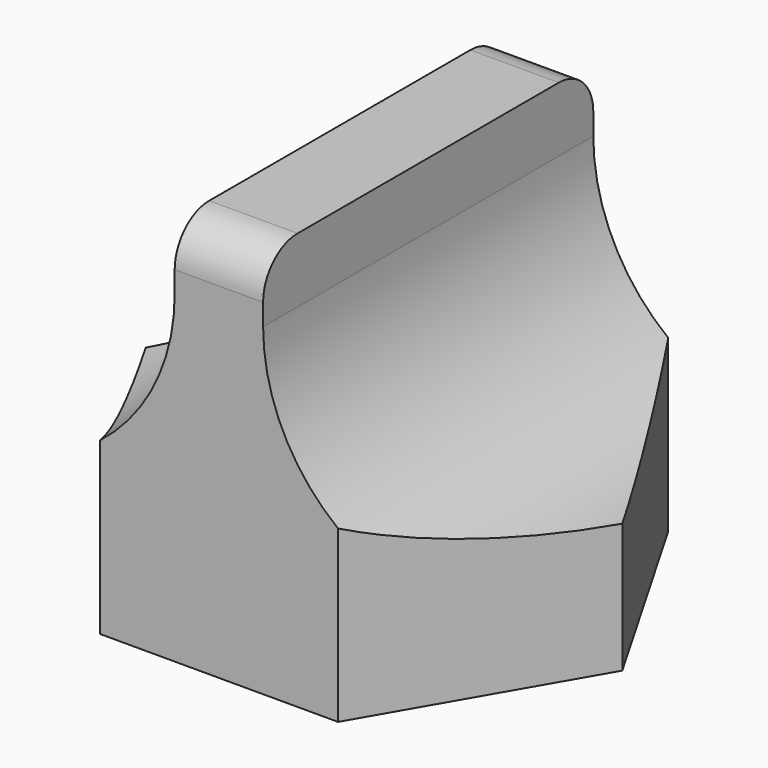
from build123d import *

# Parameters (mm, degrees)
PAD_DEPTH       = 7.5
SKETCH001_R     = 4.5
POCKET_DEPTH    = 30
SKETCH002_R     = 1.7
HOLE_DEPTH      = 5
HOLE_TIPS_R     = 1.7
POCKET001_DEPTH = 2.6
POCKET002_DEPTH = 0.3
SKETCH007_R     = 0.32
POCKET003_DEPTH = 1.5
SKETCH008_W     = 2.05
SKETCH008_H     = 9.56958
PAD003_DEPTH    = 1.5
FILLET001_R     = 1
SKETCH005_R     = 1.6
PAD001_DEPTH    = 0.3
SKETCH006_R     = 0.32
SKETCH006_R_2   = 0.319777
PAD002_DEPTH    = 1.32
FILLET_R        = 0.3


with BuildPart() as main_body:
    # Sketch → Pad (new body)
    with BuildSketch(Plane.XY):
        Polygon((5.525, 0), (2.7625, 4.78479), (-2.7625, 4.78479), (-5.525, 0), (-2.7625, -4.78479), (2.7625, -4.78479), align=None)
    extrude(amount=PAD_DEPTH)

    # Sketch001 (on Face5 of Pad) → Pocket (cut)
    with BuildSketch(Plane.XZ.offset(4.78479)):
        with Locations((-5.525, 7.5)):
            Circle(SKETCH001_R)
        with Locations((5.525, 7.5)):
            Circle(SKETCH001_R)
    extrude(amount=-POCKET_DEPTH, mode=Mode.SUBTRACT)

    # Sketch002 → Hole (cut)
    with BuildSketch(Plane(origin=(0, 0, 0), x_dir=(1, 0, 0), z_dir=(0, 0, -1))):
        Circle(SKETCH002_R)
    extrude(amount=-HOLE_DEPTH, mode=Mode.SUBTRACT)

    # Hole tips → Hole tip 1 section 0
    with BuildSketch(Plane(origin=(0, 0, 5), x_dir=(1, 0, 0), z_dir=(0, 0, -1)), mode=Mode.PRIVATE) as hole_tip_1_s0:
        Circle(HOLE_TIPS_R)
    loft([hole_tip_1_s0.sketch, Vertex(0, 0, 6.021463)], mode=Mode.SUBTRACT)

    # Sketch003 (on Face2 of Hole) → Pocket001 (cut)
    with BuildSketch(Plane(origin=(0, 0, 0), x_dir=(1, 0, 0), z_dir=(0, 0, -1))):
        Polygon((2.948341, 0), (1.498341, 2.511474), (-1.401659, 2.511474), (-2.851659, 0), (-1.401659, -2.511474), (1.498341, -2.511474), align=None)
    extrude(amount=-POCKET001_DEPTH, mode=Mode.SUBTRACT)

    # Sketch004 (on Face2 of Pocket001) → Pocket002 (cut)
    with BuildSketch(Plane(origin=(0, 0, 0), x_dir=(1, 0, 0), z_dir=(0, 0, -1))):
        Polygon((4.5, 0), (2.25, 3.897114), (-2.25, 3.897114), (-4.5, 0), (-2.25, -3.897114), (2.25, -3.897114), align=None)
    extrude(amount=-POCKET002_DEPTH, mode=Mode.SUBTRACT)

    # Sketch007 (on Face17 of Pocket002) → Pocket003 (cut)
    with BuildSketch(Plane(origin=(0, 0, 0.3), x_dir=(1, 0, 0), z_dir=(0, 0, -1))):
        with Locations((0.000817, -3.35)):
            Circle(SKETCH007_R)
        with Locations((-3.349997, -0.004097)):
            Circle(SKETCH007_R)
        with Locations((0.000817, 3.35)):
            Circle(SKETCH007_R)
        with Locations((3.349997, -0.004097)):
            Circle(SKETCH007_R)
    extrude(amount=-POCKET003_DEPTH, mode=Mode.SUBTRACT)

    # Sketch008 (on Face16 of Pocket003) → Pad003 (join)
    with BuildSketch(Plane.XY.offset(7.5)):
        Rectangle(SKETCH008_W, SKETCH008_H)
    extrude(amount=PAD003_DEPTH)

    # Fillet001
    fillet001_edges = [main_body.edges().sort_by_distance(p)[0] for p in [
        (0, -4.78479, 9),
        (0, 4.78479, 9),
    ]]
    fillet(fillet001_edges, radius=FILLET001_R)


with BuildPart() as cap_body:
    # Sketch005 → Pad001 (new body)
    with BuildSketch(Plane.XY):
        Polygon((4.5, 0), (2.25, 3.897114), (-2.25, 3.897114), (-4.5, 0), (-2.25, -3.897114), (2.25, -3.897114), align=None)
        Circle(SKETCH005_R, mode=Mode.SUBTRACT)
    extrude(amount=PAD001_DEPTH)

    # Sketch006 (on Face9 of Pad001) → Pad002 (join)
    with BuildSketch(Plane.XY.offset(0.3)):
        with Locations((-3.348556, -0.002937)):
            Circle(SKETCH006_R)
        with Locations((0, -3.348557)):
            Circle(SKETCH006_R_2)
        with Locations((0, 3.348557)):
            Circle(SKETCH006_R_2)
        with Locations((3.348556, -0.002937)):
            Circle(SKETCH006_R)
    extrude(amount=PAD002_DEPTH)

    # Fillet
    fillet_edges = [cap_body.edges().sort_by_distance(p)[0] for p in [
        (-0.319777, -3.348557, 1.62),
        (-3.668556, -0.002937, 1.62),
        (-0.319777, 3.348557, 1.62),
        (3.028556, -0.002937, 1.62),
    ]]
    fillet(fillet_edges, radius=FILLET_R)


solid = Compound([main_body.part, cap_body.part])
